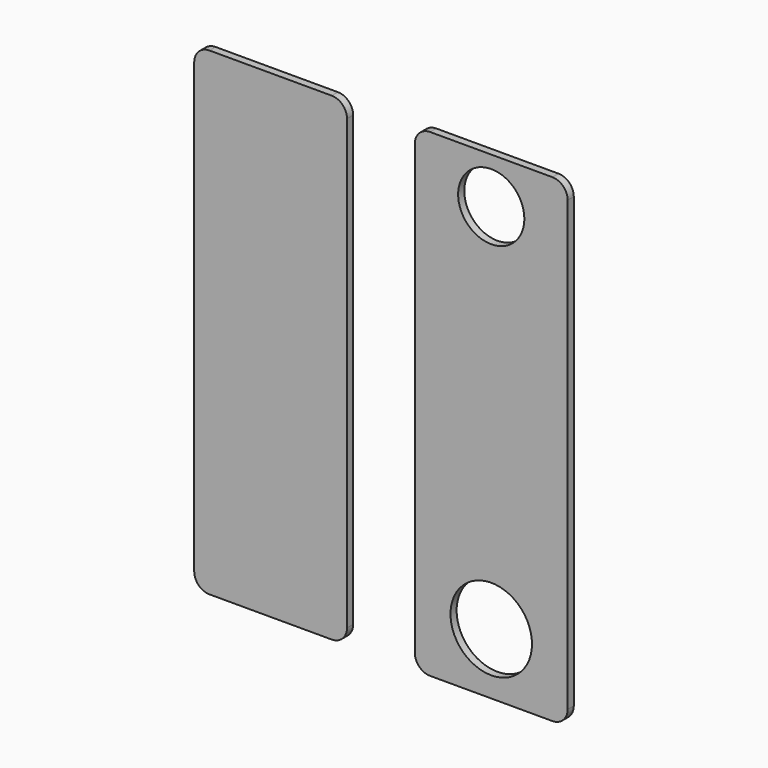
from build123d import *

# Parameters (mm, degrees)
F0_W     = 95.25
F0_H     = 298.45
F0_R     = 25.4
F0_R_2   = 20.6375
F1_DEPTH = 4.7752
F2_R     = 9.525
F3_W     = 95.25
F3_H     = 298.45
F4_DEPTH = 4.7752
F5_R     = 9.525


with BuildPart() as f1:
    # F0 (on Front) → F1 (new body)
    with BuildSketch(Plane.XZ):
        with Locations((47.625, 149.225)):
            Rectangle(F0_W, F0_H)
        with Locations((47.625, 38.1)):
            Circle(F0_R, mode=Mode.SUBTRACT)
        with Locations((47.625, 269.875)):
            Circle(F0_R_2, mode=Mode.SUBTRACT)
    extrude(amount=F1_DEPTH)

    # F2
    f2_edges = [f1.edges().sort_by_distance(p)[0] for p in [
        (0, -2.3876, 298.45),
        (95.25, -2.3876, 298.45),
        (0, -2.3876, 0),
        (95.25, -2.3876, 0),
    ]]
    fillet(f2_edges, radius=F2_R)


with BuildPart() as f4:
    # F3 (on Front) → F4 (new body)
    with BuildSketch(Plane.XZ):
        with Locations((-89.895899, 149.225)):
            Rectangle(F3_W, F3_H)
    extrude(amount=F4_DEPTH)

    # F5
    f5_edges = [f4.edges().sort_by_distance(p)[0] for p in [
        (-137.520899, -2.3876, 298.45),
        (-42.270899, -2.3876, 298.45),
        (-42.270899, -2.3876, 0),
        (-137.520899, -2.3876, 0),
    ]]
    fillet(f5_edges, radius=F5_R)


solid = Compound([f1.part, f4.part])
